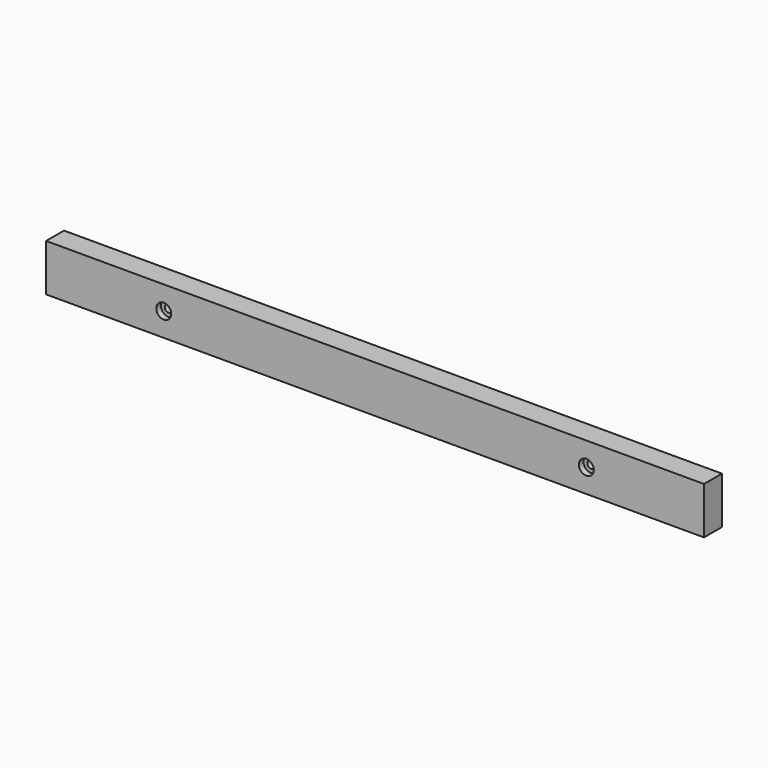
from build123d import *

# Parameters (mm, degrees)
SKETCH_W     = 559.05
SKETCH_H     = 40
SKETCH_R     = 3.175
PAD_DEPTH    = 19.05
SKETCH001_R  = 6.35
POCKET_DEPTH = 5


with BuildPart() as part:
    # Sketch → Pad (new body)
    with BuildSketch(Plane.XZ):
        with Locations((279.525, 20)):
            Rectangle(SKETCH_W, SKETCH_H)
        with Locations((100, 20)):
            Circle(SKETCH_R, mode=Mode.SUBTRACT)
        with Locations((459.05, 20)):
            Circle(SKETCH_R, mode=Mode.SUBTRACT)
    extrude(amount=PAD_DEPTH)

    # Sketch001 (on Face8 of Pad) → Pocket (cut)
    with BuildSketch(Plane.XZ.offset(19.05)):
        with Locations((100, 20)):
            Circle(SKETCH001_R)
        with Locations((459.05, 20)):
            Circle(SKETCH001_R)
    extrude(amount=-POCKET_DEPTH, mode=Mode.SUBTRACT)


solid = part.part
